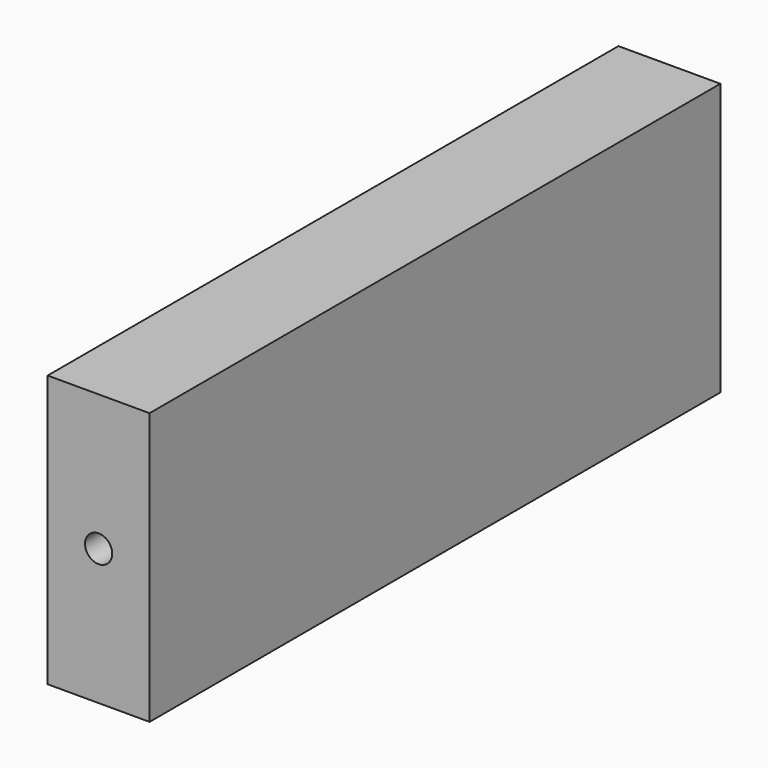
from build123d import *

# Parameters (mm, degrees)
F0_W     = 105
F0_H     = 40
F1_DEPTH = 15
F3_D     = 4
F3_DEPTH = 12
F3_TIP   = 1.2017212381
F5_D     = 4
F5_DEPTH = 12
F5_TIP   = 1.2017212381


with BuildPart() as f1:
    # F0 (on Right) → F1 (new body)
    with BuildSketch(Plane.YZ):
        Rectangle(F0_W, F0_H)
    extrude(amount=F1_DEPTH)

    # F3
    with Locations(Plane.XZ.offset(52.5)):
        with Locations((7.5, 0)):
            Hole(F3_D / 2, depth=F3_DEPTH)
            with Locations((0, 0, -(F3_DEPTH + F3_TIP / 2))):  # 118° drill point
                Cone(0, F3_D / 2, F3_TIP, mode=Mode.SUBTRACT)

    # F5
    with Locations(Plane(origin=(0, 0, -20), x_dir=(1, 0, 0), z_dir=(0, 0, -1))):
        with Locations((7.5, 45), (7.5, -45)):
            Hole(F5_D / 2, depth=F5_DEPTH)
            with Locations((0, 0, -(F5_DEPTH + F5_TIP / 2))):  # 118° drill point
                Cone(0, F5_D / 2, F5_TIP, mode=Mode.SUBTRACT)


solid = f1.part
